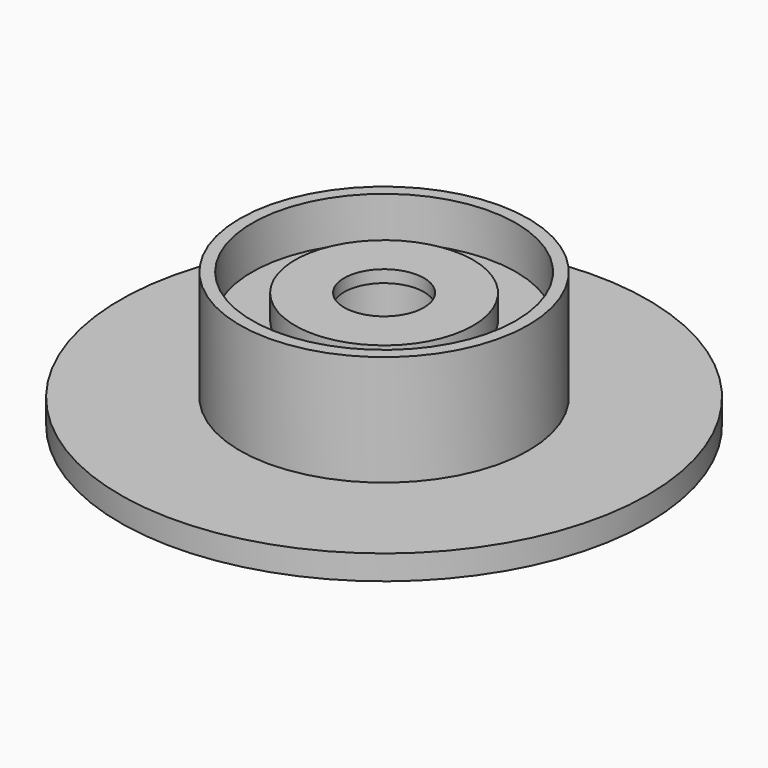
from build123d import *

# Parameters (mm, degrees)
F0_R     = 21.5
F0_R_2   = 4.1
F1_DEPTH = 2
F2_R     = 11.75
F2_R_2   = 4.1
F3_DEPTH = 9
F4_R     = 10.75
F4_R_2   = 7.25
F5_DEPTH = 3.5
F6_DEPTH = 2.5
F7_R     = 7.25
F7_R_2   = 4.1
F7_R_3   = 3.25
F8_DEPTH = 1


with BuildPart() as f1:
    # F0 (on Top) → F1 (new body)
    with BuildSketch(Plane.XY):
        Circle(F0_R)
        Circle(F0_R_2, mode=Mode.SUBTRACT)
    extrude(amount=F1_DEPTH)

    # F2 (on face) → F3 (join)
    with BuildSketch(Plane.XY.offset(2)):
        Circle(F2_R)
        Circle(F2_R_2, mode=Mode.SUBTRACT)
    extrude(amount=F3_DEPTH)

    # F4 (on face) → F5 (cut)
    with BuildSketch(Plane.XY.offset(11)):
        Circle(F4_R)
        Circle(F4_R_2, mode=Mode.SUBTRACT)
    extrude(amount=-F5_DEPTH, mode=Mode.SUBTRACT)

    # F6 (cut): a face of the model
    f6_faces = [f1.faces().sort_by_distance(p)[0] for p in [
        (-7.0449390335, 0, 11),
    ]]
    extrude(f6_faces, amount=-F6_DEPTH, mode=Mode.SUBTRACT)

    # F7 (on face) → F8 (join)
    with BuildSketch(Plane.XY.offset(8.5)):
        Circle(F7_R)
        Circle(F7_R_2, mode=Mode.SUBTRACT)
        Circle(F7_R_2)
        Circle(F7_R_3, mode=Mode.SUBTRACT)
    extrude(amount=F8_DEPTH)


solid = f1.part
